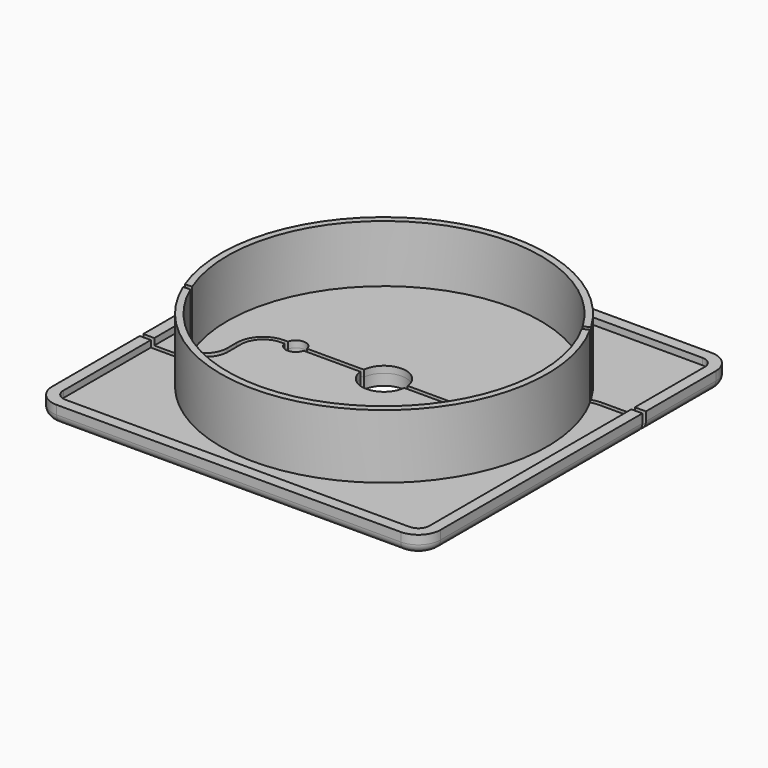
from build123d import *

# Parameters (mm, degrees)
F1_DEPTH = 4
F2_T     = -2.5
F3_R     = 37
F4_DEPTH = 14.5
F5_T     = -1.5
F6_R     = 5
F6_R_2   = 2.25
F7_DEPTH = 17.001
F9_DEPTH = 17.001
F10_R    = 2


with BuildPart() as f1:
    # F0 (on Top) → F1 (new body)
    with BuildSketch(Plane.XY):
        with BuildLine():
            Line((-39, -44), (39, -44))
            ThreePointArc((39, -44), (42.535534, -42.535534), (44, -39))
            Line((44, -39), (44, 39))
            ThreePointArc((44, 39), (42.535534, 42.535534), (39, 44))
            Line((39, 44), (-39, 44))
            ThreePointArc((-39, 44), (-42.535534, 42.535534), (-44, 39))
            Line((-44, 39), (-44, -39))
            ThreePointArc((-44, -39), (-42.535534, -42.535534), (-39, -44))
        make_face()
    extrude(amount=F1_DEPTH)

    # F2
    f2_openings = [f1.faces().sort_by_distance(p)[0] for p in [
        (0, 0, 4),
    ]]
    offset(amount=F2_T, openings=f2_openings)


with BuildPart() as f4:
    # F3 (on face) → F4 (new body)
    with BuildSketch(Plane.XY.offset(2.5)):
        Circle(F3_R)
    extrude(amount=F4_DEPTH)

    # F5
    f5_openings = [f4.faces().sort_by_distance(p)[0] for p in [
        (0, 0, 17),
    ]]
    offset(amount=F5_T, openings=f5_openings)


with BuildPart() as f7_tool:
    # F6 (on face) → F7 (new body, through all)
    with BuildSketch(Plane(origin=(0, 0, 0), x_dir=(1, 0, 0), z_dir=(0, 0, -1))):
        Circle(F6_R)
        with Locations((20, 0)):
            Circle(F6_R_2)
        with Locations((-20, 0)):
            Circle(F6_R_2)
    extrude(amount=-F7_DEPTH)


with BuildPart() as f1_1:
    add(f1.part)

    # F7: cut by f7_tool
    add(f7_tool.part, mode=Mode.SUBTRACT)


with BuildPart() as f4_1:
    add(f4.part)

    # F7: cut by f7_tool
    add(f7_tool.part, mode=Mode.SUBTRACT)


with BuildPart() as f9_tool:
    # F8 (on face) → F9 (new body, through all)
    with BuildSketch(Plane(origin=(0, 0, 0), x_dir=(1, 0, 0), z_dir=(0, 0, -1))):
        with BuildLine():
            Line((50.262612, -18.200689), (34, -18.200689))
            ThreePointArc((34, -18.200689), (30.464466, -16.736223), (29, -13.200689))
            Line((29, -13.200689), (29, -4.5))
            ThreePointArc((29, -4.5), (27.535534, -0.964466), (24, 0.5))
            Line((24, 0.5), (-23, 0.5))
            ThreePointArc((-23, 0.5), (-26.535534, 1.964466), (-28, 5.5))
            Line((-28, 5.5), (-28, 9.200689))
            ThreePointArc((-28, 9.200689), (-29.464466, 12.736223), (-33, 14.200689))
            Line((-33, 14.200689), (-44, 14.200689))
            Line((-44, 14.200689), (-44, 13.200689))
            Line((-44, 13.200689), (-34, 13.200689))
            ThreePointArc((-34, 13.200689), (-30.464466, 11.736223), (-29, 8.200689))
            Line((-29, 8.200689), (-29, 5.5))
            ThreePointArc((-29, 5.5), (-27.242641, 1.257359), (-23, -0.5))
            Line((-23, -0.5), (23, -0.5))
            ThreePointArc((23, -0.5), (26.535534, -1.964466), (28, -5.5))
            Line((28, -5.5), (28, -13.200689))
            ThreePointArc((28, -13.200689), (29.757359, -17.44333), (34, -19.200689))
            Line((34, -19.200689), (50.262612, -19.200689))
            Line((50.262612, -19.200689), (50.262612, -18.200689))
        make_face()
    extrude(amount=-F9_DEPTH)


with BuildPart() as f1_2:
    add(f1_1.part)

    # F9: cut by f9_tool
    add(f9_tool.part, mode=Mode.SUBTRACT)

    # F10
    f10_edges = [f1_2.edges().sort_by_distance(p)[0] for p in [
        (0, -44, 0),
        (-44, 12.899655, 0),
    ]]
    fillet(f10_edges, radius=F10_R)


with BuildPart() as f4_2:
    add(f4_1.part)

    # F9: cut by f9_tool
    add(f9_tool.part, mode=Mode.SUBTRACT)


solid = Compound([f1_2.part, f4_2.part])
